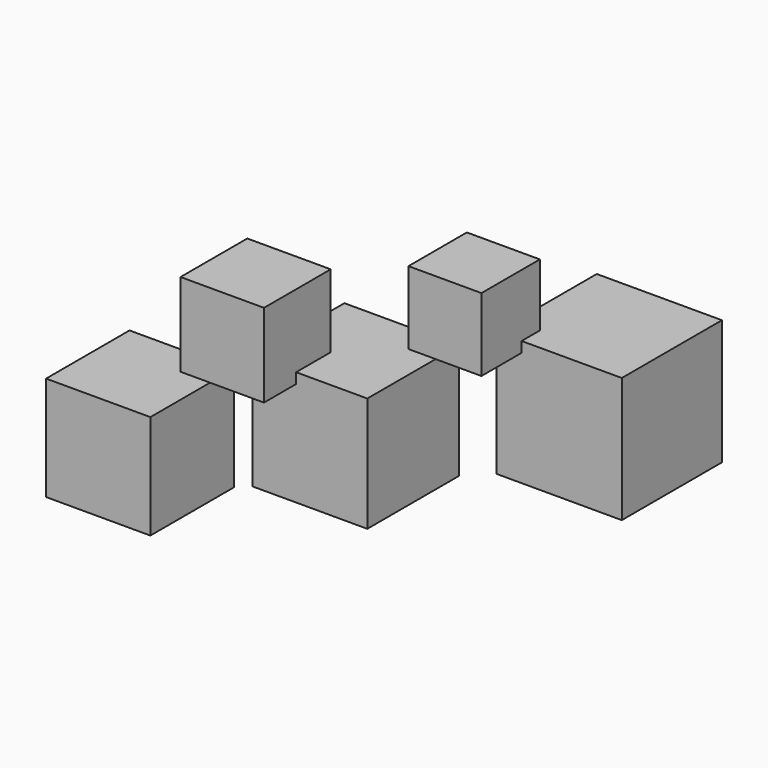
from build123d import *

# Parameters (mm, degrees)
F0_W     = 10
F0_H     = 10
F1_DEPTH = 10
F2_W     = 11
F2_H     = 11
F3_DEPTH = 11
F4_W     = 12
F4_H     = 12
F5_DEPTH = 12
F6_W     = 8
F6_H     = 8
F7_DEPTH = 8
F8_W     = 7
F8_H     = 7
F9_DEPTH = 7


with BuildPart() as f1:
    # F0 (on Top) → F1 (new body)
    with BuildSketch(Plane.XY):
        with Locations((5, 5)):
            Rectangle(F0_W, F0_H)
    extrude(amount=F1_DEPTH)


with BuildPart() as f3:
    # F2 (on Top) → F3 (new body)
    with BuildSketch(Plane.XY):
        with Locations((16.5, 16.5)):
            Rectangle(F2_W, F2_H)
    extrude(amount=F3_DEPTH)


with BuildPart() as f5:
    # F4 (on Top) → F5 (new body)
    with BuildSketch(Plane.XY):
        with Locations((30, 30)):
            Rectangle(F4_W, F4_H)
    extrude(amount=F5_DEPTH)


with BuildPart() as f7:
    # F6 (on face) → F7 (new body)
    with BuildSketch(Plane.XY.offset(10)):
        with Locations((11.172373, 11.149319)):
            Rectangle(F6_W, F6_H)
    extrude(amount=F7_DEPTH)


with BuildPart() as f9:
    # F8 (on face) → F9 (new body)
    with BuildSketch(Plane.XY.offset(11)):
        with Locations((22.894903, 22.685262)):
            Rectangle(F8_W, F8_H)
    extrude(amount=F9_DEPTH)


solid = Compound([f1.part, f3.part, f5.part, f7.part, f9.part])
